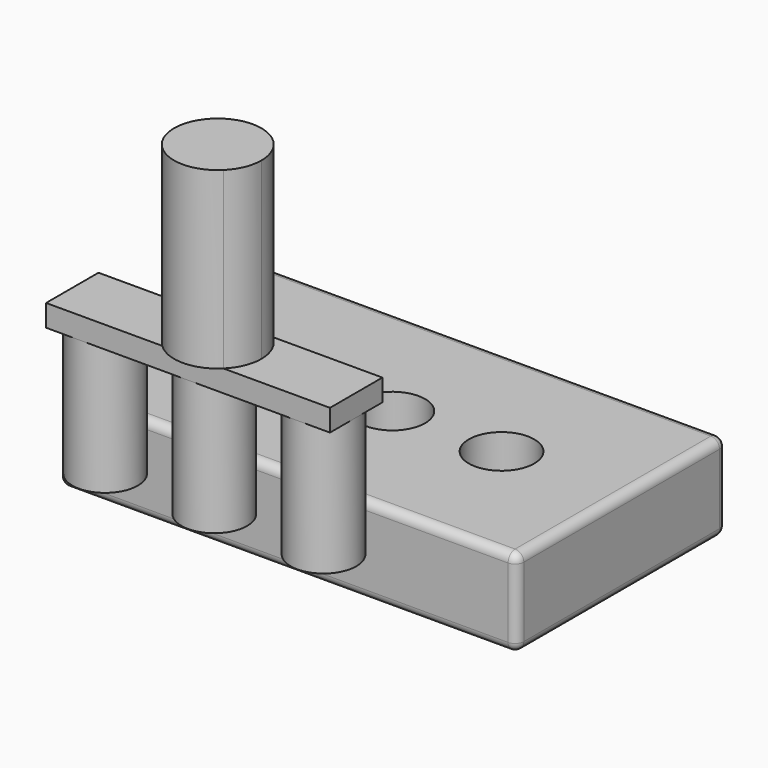
from build123d import *

# Parameters (mm, degrees)
F0_W     = 266.7
F0_H     = 152.4
F0_R     = 19.05
F1_DEPTH = 50.8
F2_R     = 5.08
F3_R     = 19.05
F4_DEPTH = 76.2
F6_DEPTH = 12.7
F8_DEPTH = 101.6


with BuildPart() as f1:
    # F0 (on Top) → F1 (new body)
    with BuildSketch(Plane.XY):
        Rectangle(F0_W, F0_H)
        with Locations((-63.5, 0)):
            Circle(F0_R, mode=Mode.SUBTRACT)
        Circle(F0_R, mode=Mode.SUBTRACT)
        with Locations((63.5, 0)):
            Circle(F0_R, mode=Mode.SUBTRACT)
    extrude(amount=F1_DEPTH)

    # F2
    f2_edges = [f1.edges().sort_by_distance(p)[0] for p in [
        (-133.35, -76.2, 25.4),
        (133.35, -76.2, 25.4),
        (0, -76.2, 0),
        (0, -76.2, 50.8),
        (133.35, 76.2, 25.4),
        (133.35, 0, 0),
        (133.35, 0, 50.8),
        (-133.35, 76.2, 25.4),
        (0, 76.2, 0),
        (0, 76.2, 50.8),
        (-133.35, 0, 0),
        (-133.35, 0, 50.8),
    ]]
    fillet(f2_edges, radius=F2_R)


with BuildPart() as f4:
    # F3 (on face) → F4 (new body)
    with BuildSketch(Plane.XY.offset(50.8)):
        with Locations((-63.5, -129.4250041246)):
            Circle(F3_R)
    extrude(amount=F4_DEPTH)


with BuildPart() as f4b:
    # F3 (on face) → F4, piece 2 (new body)
    with BuildSketch(Plane.XY.offset(50.8)):
        with Locations((0, -129.4250041246)):
            Circle(F3_R)
    extrude(amount=F4_DEPTH)


with BuildPart() as f4c:
    # F3 (on face) → F4, piece 3 (new body)
    with BuildSketch(Plane.XY.offset(50.8)):
        with Locations((63.5, -129.4250041246)):
            Circle(F3_R)
    extrude(amount=F4_DEPTH)


with BuildPart() as f6:
    # F5 (on face) → F6 (new body)
    with BuildSketch(Plane.XY.offset(127)):
        with BuildLine():
            Line((-82.55, -148.526676), (82.55, -148.526676))
            Line((82.55, -148.526676), (82.55, -110.426676))
            Line((82.55, -110.426676), (-62.0978486286, -110.426676))
            ThreePointArc((-62.0978486286, -110.426676), (-49.5426814247, -116.4598293018), (-44.45, -129.4250041246))
            ThreePointArc((-44.45, -129.4250041246), (-63.5, -148.4750041246), (-82.55, -129.4250041246))
            Line((-82.55, -129.4250041246), (-82.55, -148.526676))
        make_face()
        with BuildLine():
            Line((-82.55, -110.426676), (-82.55, -129.4250041246))
            ThreePointArc((-82.55, -129.4250041246), (-77.4573185753, -116.4598293018), (-64.9021513714, -110.426676))
            Line((-64.9021513714, -110.426676), (-82.55, -110.426676))
        make_face()
        with BuildLine():
            ThreePointArc((-64.9021513714, -110.426676), (-77.4573185753, -116.4598293018), (-82.55, -129.4250041246))
            ThreePointArc((-82.55, -129.4250041246), (-63.5, -148.4750041246), (-44.45, -129.4250041246))
            ThreePointArc((-44.45, -129.4250041246), (-49.5426814247, -116.4598293018), (-62.0978486286, -110.426676))
            Line((-62.0978486286, -110.426676), (-64.9021513714, -110.426676))
        make_face()
    extrude(amount=F6_DEPTH)

    # F7 (on face) → F8 (join)
    with BuildSketch(Plane.XY.offset(139.7)):
        with BuildLine():
            Line((-12.8925051179, -110.426676), (18.4733471472, -110.426676))
            ThreePointArc((18.4733471472, -110.426676), (2.7904210147, -105.0068118334), (-12.8925051179, -110.426676))
        make_face()
        with BuildLine():
            ThreePointArc((20.5901547931, -148.526676), (26.2134143969, -140.2314431758), (28.1904210147, -130.4068118334))
            ThreePointArc((28.1904210147, -130.4068118334), (25.6323377881, -119.29794879), (18.4733471472, -110.426676))
            Line((18.4733471472, -110.426676), (-12.8925051179, -110.426676))
            ThreePointArc((-12.8925051179, -110.426676), (-22.5704667592, -128.9977797823), (-15.0093127638, -148.526676))
            Line((-15.0093127638, -148.526676), (20.5901547931, -148.526676))
        make_face()
        with BuildLine():
            ThreePointArc((-15.0093127638, -148.526676), (2.7904210147, -155.8068118334), (20.5901547931, -148.526676))
            Line((20.5901547931, -148.526676), (-15.0093127638, -148.526676))
        make_face()
    extrude(amount=F8_DEPTH)


solid = Compound([f1.part, f4.part, f4b.part, f4c.part, f6.part])
